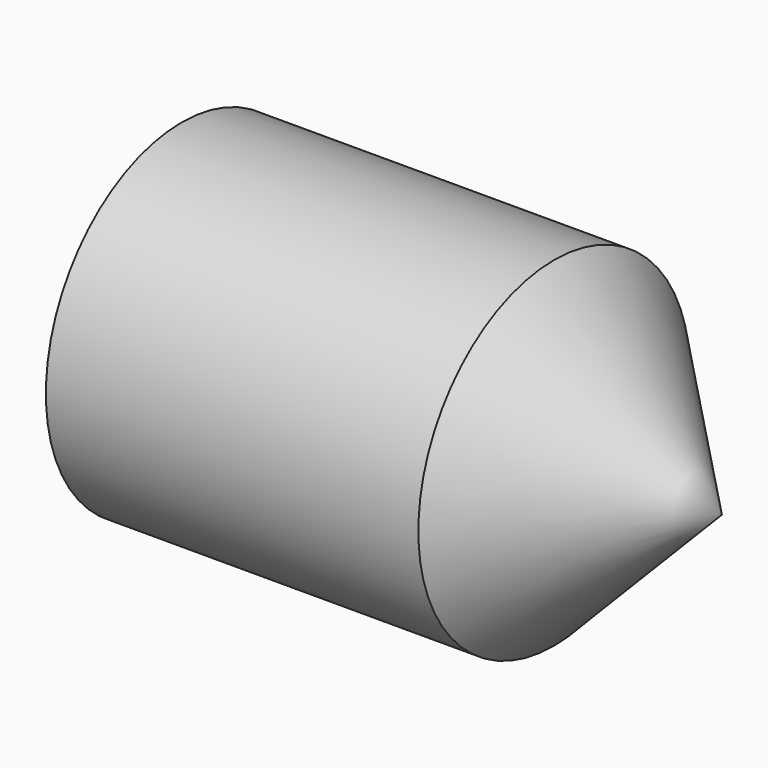
from build123d import *

# Parameters (mm, degrees)
F2_DEPTH = 127


with BuildPart() as f1:
    # F0 (on Front) → F1 (revolve)
    with BuildSketch(Plane.XZ):
        Polygon((0, 0), (0, -57.9107478261), (57.1804791689, -57.9107478261), align=None)
    revolve(axis=Axis((28.5902395844, 0, -57.9107478261), (1, 0, 0)))

    # F2 (add): a face of the model
    f2_faces = [f1.faces().sort_by_distance(p)[0] for p in [
        (0, 0, -57.9107478261),
    ]]
    extrude(f2_faces, amount=F2_DEPTH)


solid = f1.part
